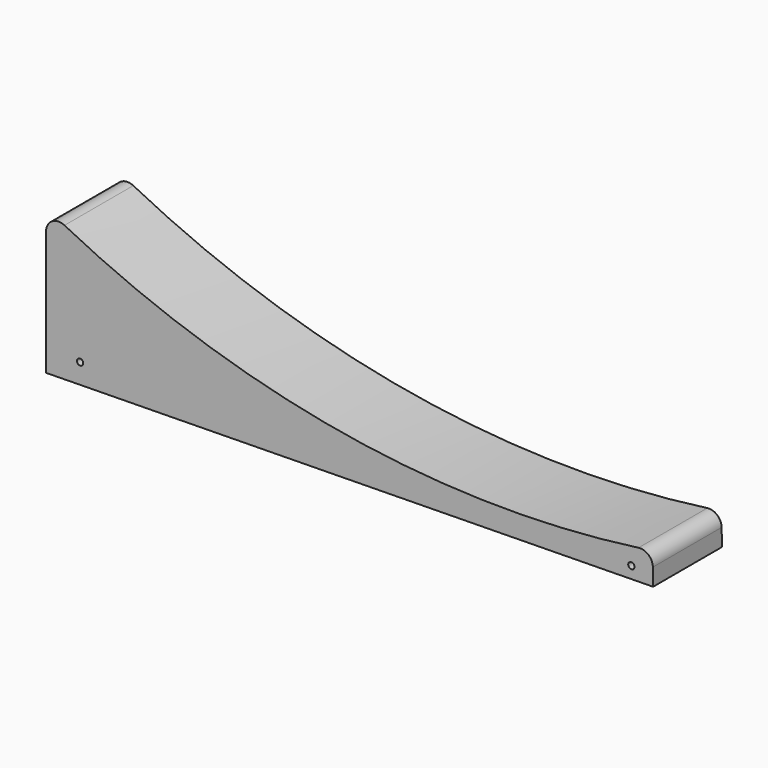
from build123d import *

# Parameters (mm, degrees)
F1_DEPTH = 43.18
F3_R     = 9.525
F4_DEPTH = 53.34
F5_R     = 1.5875
F6_DEPTH = 57.15


with BuildPart() as f1:
    # F0 (on Front) → F1 (new body)
    with BuildSketch(Plane.XZ):
        with BuildLine():
            Line((0, 62.539058), (0, 0))
            Line((0, 0), (304.765889, 4.559934))
            Line((304.765889, 4.559934), (304.636415, 13.213416))
            ThreePointArc((304.636415, 13.213416), (302.426417, 17.933889), (297.427606, 19.409977))
            ThreePointArc((297.427606, 19.409977), (149.599987, 21.769594), (9.232421, 68.197163))
            ThreePointArc((9.232421, 68.197163), (3.031934, 67.953201), (0, 62.539058))
        make_face()
    extrude(amount=-F1_DEPTH)

    # F3 (on face) → F4 (cut)
    with BuildSketch(Plane(origin=(0, 0, 0), x_dir=(0, -1, 0), z_dir=(-1, 0, 0))):
        with Locations((-21.59, 31.269529)):
            Circle(F3_R)
    extrude(amount=-F4_DEPTH, mode=Mode.SUBTRACT)

    # F5 (on face) → F6 (cut)
    with BuildSketch(Plane.XZ):
        with Locations((17.067824, 10.321916)):
            Circle(F5_R)
        with Locations((293.850511, 10.321916)):
            Circle(F5_R)
    extrude(amount=-F6_DEPTH, mode=Mode.SUBTRACT)


solid = f1.part
